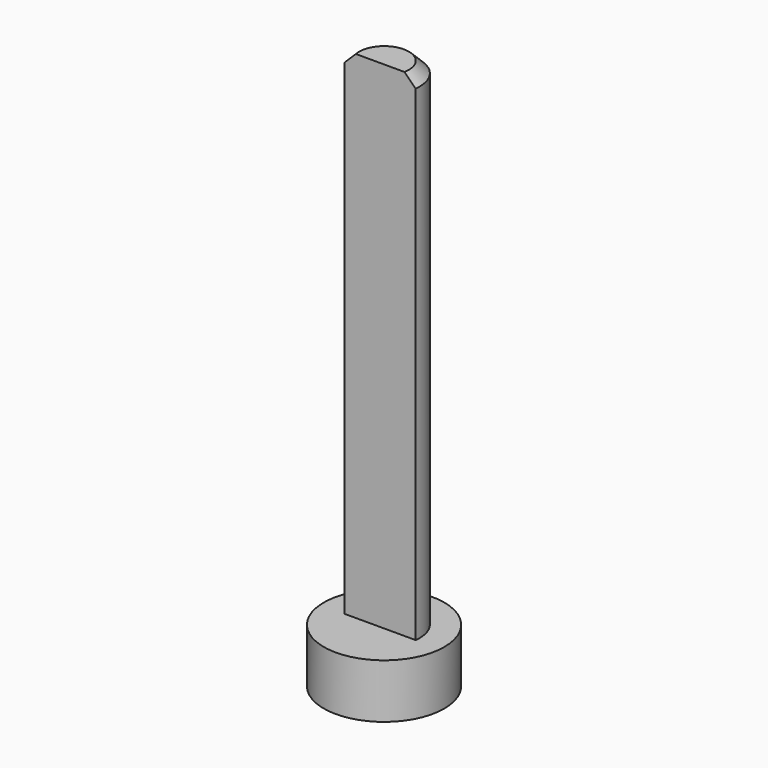
from build123d import *

# Parameters (mm, degrees)
F1_DEPTH = 254
F2_SIZE  = 5.08
F3_R     = 27.792058
F4_DEPTH = 25


with BuildPart() as f1:
    # F0 (on Top) → F1 (new body)
    with BuildSketch(Plane.XY):
        with BuildLine():
            Line((-16.345871, -2.25), (16.345871, -2.25))
            ThreePointArc((16.345871, -2.25), (0, 16.5), (-16.345871, -2.25))
        make_face()
    extrude(amount=F1_DEPTH)

    # F2
    f2_edges = [f1.edges().sort_by_distance(p)[0] for p in [
        (0, 16.5, 254),
    ]]
    chamfer(f2_edges, length=F2_SIZE)


with BuildPart() as f4:
    # F3 (on face) → F4 (new body)
    with BuildSketch(Plane(origin=(0, 0, 0), x_dir=(1, 0, 0), z_dir=(0, 0, -1))):
        Circle(F3_R)
        with BuildLine():
            Line((-16.345871, 2.25), (16.345871, 2.25))
            ThreePointArc((16.345871, 2.25), (0, -16.5), (-16.345871, 2.25))
        make_face(mode=Mode.SUBTRACT)
    extrude(amount=-F4_DEPTH)


solid = Compound([f1.part, f4.part])
